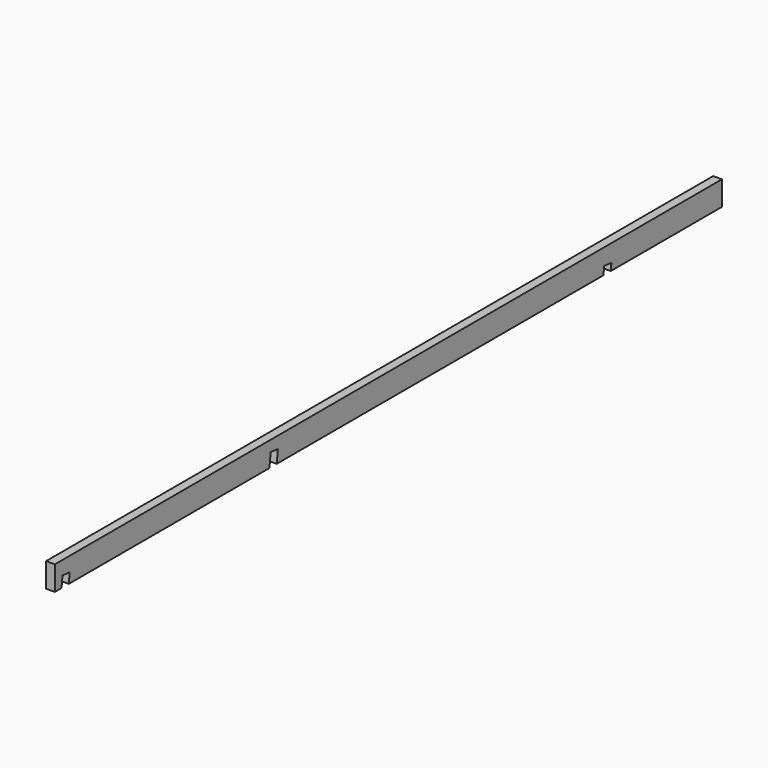
from build123d import *

# Parameters (mm, degrees)
F0_W     = 63
F0_H     = 175
F1_DEPTH = 3000
F3_DEPTH = 63


with BuildPart() as f1:
    # F0 (on Front) → F1 (new body, symmetric)
    with BuildSketch(Plane.XZ):
        Rectangle(F0_W, F0_H)
    extrude(amount=F1_DEPTH, both=True)

    # F2 (on face) → F3 (cut, through all)
    with BuildSketch(Plane.YZ.offset(31.5)):
        Polygon((1934.57907, -87.5), (2000, -87.5), (2005.699481, -37.5), (1941.117703, -30.138347), align=None)
        Polygon((-1069.75134, -87.5), (-1004.33041, -87.5), (-994.071343, 2.5), (-1058.653121, 9.861653), align=None)
        Polygon((-2940, -87.5), (-2874.57907, -87.5), (-2866.599796, -17.5), (-2931.181574, -10.138347), align=None)
    extrude(amount=-F3_DEPTH, mode=Mode.SUBTRACT)


solid = f1.part
